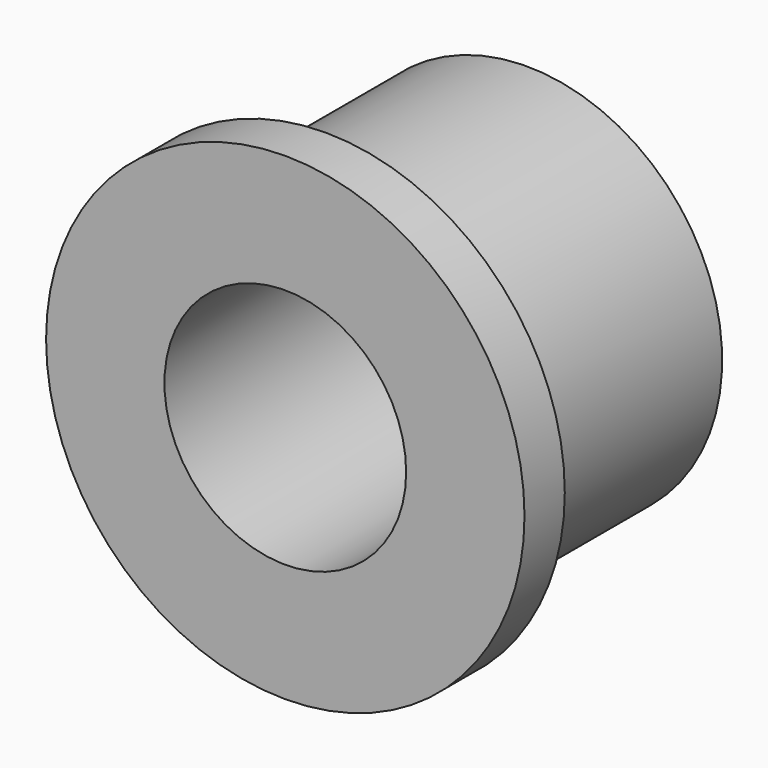
from build123d import *

# Parameters (mm, degrees)
F0_R     = 9.5
F0_R_2   = 4.8
F1_DEPTH = 12
F2_R     = 9.5
F2_R_2   = 7.75
F3_DEPTH = 10


with BuildPart() as f1:
    # F0 (on Front) → F1 (new body)
    with BuildSketch(Plane.XZ):
        Circle(F0_R)
        Circle(F0_R_2, mode=Mode.SUBTRACT)
    extrude(amount=-F1_DEPTH)

    # F2 (on face) → F3 (cut)
    with BuildSketch(Plane(origin=(0, 12, 0), x_dir=(-1, 0, 0), z_dir=(0, 1, 0))):
        Circle(F2_R)
        Circle(F2_R_2, mode=Mode.SUBTRACT)
    extrude(amount=-F3_DEPTH, mode=Mode.SUBTRACT)


solid = f1.part
